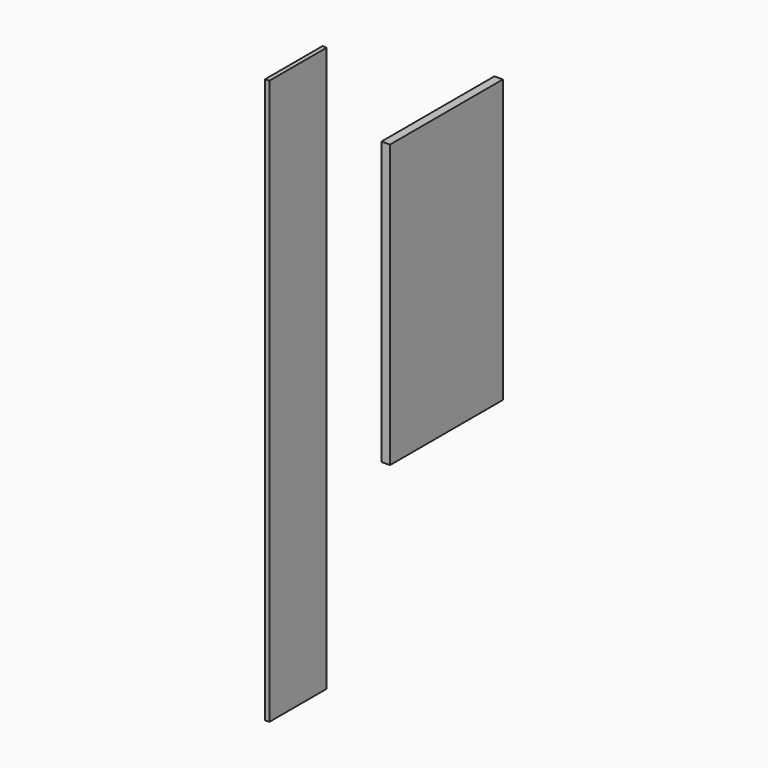
from build123d import *

# Parameters (mm, degrees)
F0_W     = 1.5
F0_H     = 100
F1_DEPTH = 25
F2_W     = 1.5
F2_H     = 200
F3_DEPTH = 25.4


with BuildPart() as f1:
    # F0 (on Front) → F1 (new body, symmetric)
    with BuildSketch(Plane.XZ):
        with Locations((0.75, 16.966294)):
            Rectangle(F0_W, F0_H)
        with Locations((-0.75, 16.966294)):
            Rectangle(F0_W, F0_H)
    extrude(amount=F1_DEPTH, both=True)


with BuildPart() as f3:
    # F2 (on Front) → F3 (new body)
    with BuildSketch(Plane.XZ):
        with Locations((-41.660464, -26.749514)):
            Rectangle(F2_W, F2_H)
    extrude(amount=F3_DEPTH)


solid = Compound([f1.part, f3.part])
